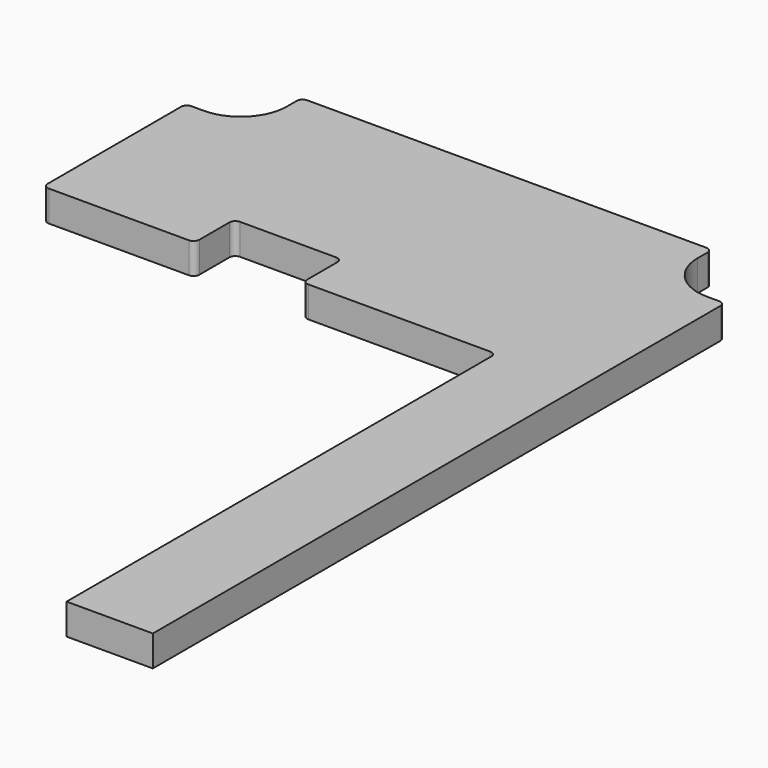
from build123d import *

# Parameters (mm, degrees)
F1_DEPTH = 2.54
F2_W     = 25.4
F2_H     = 5.08
F3_DEPTH = 1.27


with BuildPart() as f1:
    # F0 (on Top) → F1 (new body)
    with BuildSketch(Plane.XY):
        with BuildLine():
            Line((0, 75.521781), (0, 31.75))
            Line((0, 31.75), (7.112, 31.75))
            Line((7.112, 31.75), (7.112, 90.221781))
            ThreePointArc((7.112, 90.221781), (6.971933, 90.559933), (6.633781, 90.7))
            Line((6.633781, 90.7), (5.622, 90.7))
            ThreePointArc((5.622, 90.7), (2.927923, 91.815923), (1.812, 94.51))
            Line((1.812, 94.51), (1.812, 95.521781))
            ThreePointArc((1.812, 95.521781), (1.671933, 95.859933), (1.333781, 96))
            Line((1.333781, 96), (-31.559781, 96))
            ThreePointArc((-31.559781, 96), (-31.897933, 95.859933), (-32.038, 95.521781))
            Line((-32.038, 95.521781), (-32.038, 94.51))
            ThreePointArc((-32.038, 94.51), (-33.153923, 91.815923), (-35.848, 90.7))
            Line((-35.848, 90.7), (-36.859781, 90.7))
            ThreePointArc((-36.859781, 90.7), (-37.197933, 90.559933), (-37.338, 90.221781))
            Line((-37.338, 90.221781), (-37.338, 76.478219))
            ThreePointArc((-37.338, 76.478219), (-37.197933, 76.140067), (-36.859781, 76))
            Line((-36.859781, 76), (-25.316219, 76))
            ThreePointArc((-25.316219, 76), (-24.978067, 76.140067), (-24.838, 76.478219))
            Line((-24.838, 76.478219), (-24.838, 79.585781))
            ThreePointArc((-24.838, 79.585781), (-24.697933, 79.923933), (-24.359781, 80.064))
            Line((-24.359781, 80.064), (-16.426219, 80.064))
            ThreePointArc((-16.426219, 80.064), (-16.088067, 79.923933), (-15.948, 79.585781))
            Line((-15.948, 79.585781), (-15.948, 76.478219))
            ThreePointArc((-15.948, 76.478219), (-15.807933, 76.140067), (-15.469781, 76))
            Line((-15.469781, 76), (-0.478219, 76))
            ThreePointArc((-0.478219, 76), (-0.140067, 75.859933), (0, 75.521781))
        make_face()
    extrude(amount=F1_DEPTH)

    # F2 (on face) → F3 (cut)
    with BuildSketch(Plane(origin=(0, 0, 0), x_dir=(1, 0, 0), z_dir=(0, 0, -1))):
        with Locations((-15.113, -93.46)):
            Rectangle(F2_W, F2_H)
    extrude(amount=-F3_DEPTH, mode=Mode.SUBTRACT)


solid = f1.part
